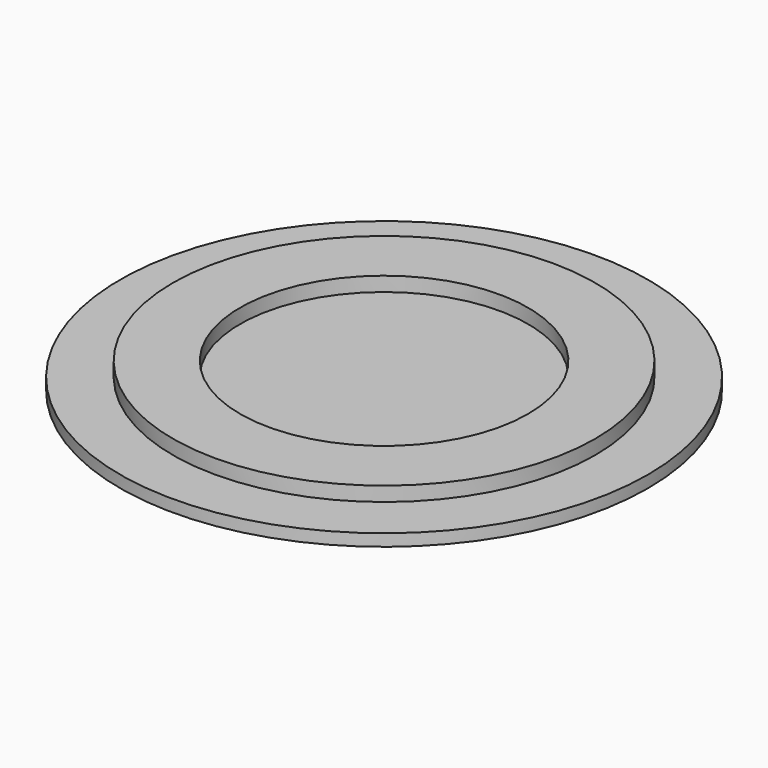
from build123d import *

# Parameters (mm, degrees)
F0_R     = 8.8
F0_R_2   = 6
F1_DEPTH = 0.6
F2_R     = 11
F3_DEPTH = 0.5


with BuildPart() as f1:
    # F0 (on Top) → F1 (new body)
    with BuildSketch(Plane.XY):
        Circle(F0_R)
        Circle(F0_R_2, mode=Mode.SUBTRACT)
    extrude(amount=F1_DEPTH)


with BuildPart() as f3:
    # F2 (on Top) → F3 (new body)
    with BuildSketch(Plane.XY):
        Circle(F2_R)
    extrude(amount=-F3_DEPTH)


solid = Compound([f1.part, f3.part])
